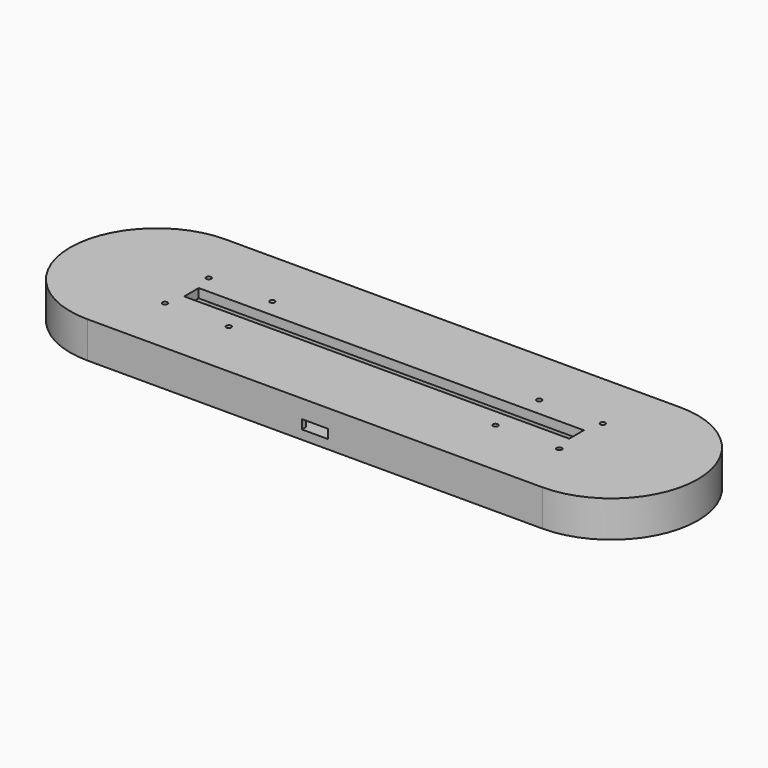
from build123d import *

# Parameters (mm, degrees)
PAD_DEPTH             = 6
POCKET_DEPTH          = 3
SKETCH002_W           = 18.4
SKETCH002_H           = 20.85
POCKET001_DEPTH       = 3
SKETCH003_W           = 8.55
SKETCH003_H           = 1.65
POCKET002_DEPTH       = 3
PAD001_DEPTH          = 3
SKETCH005_W           = 127
SKETCH005_H           = 6
PAD002_DEPTH          = 3
SKETCH006_R           = 0.825
POCKET003_DEPTH       = 442.080062
POLARPATTERN_COUNT    = 2
POLARPATTERN001_COUNT = 2
POLARPATTERN002_COUNT = 2


with BuildPart() as part:
    # Sketch → Pad (new body)
    with BuildSketch(Plane.XY):
        with BuildLine():
            ThreePointArc((-75, 28.5), (-103.5, 0), (-75, -28.5))
            Line((-75, -28.5), (75, -28.5))
            ThreePointArc((75, -28.5), (103.5, 0), (75, 28.5))
            Line((-75, 28.5), (75, 28.5))
        make_face()
    extrude(amount=PAD_DEPTH)

    # Sketch001 (on Face6 of Pad) → Pocket (cut)
    with BuildSketch(Plane.XY.offset(6)):
        with BuildLine():
            ThreePointArc((-62.5, 6), (-68.5, 0), (-62.5, -6))
            Line((-62.5, -6), (62.5, -6))
            ThreePointArc((62.5, -6), (68.5, 0), (62.5, 6))
            Line((-62.5, 6), (62.5, 6))
        make_face()
    extrude(amount=-POCKET_DEPTH, mode=Mode.SUBTRACT)

    # Sketch002 (on Face5 of Pocket) → Pocket001 (cut)
    with BuildSketch(Plane.XY.offset(6)):
        with Locations((0, -16.425)):
            Rectangle(SKETCH002_W, SKETCH002_H)
    extrude(amount=-POCKET001_DEPTH, mode=Mode.SUBTRACT)

    # Sketch003 (on Face5 of Pocket001) → Pocket002 (cut)
    with BuildSketch(Plane.XY.offset(6)):
        with Locations((0, -27.675)):
            Rectangle(SKETCH003_W, SKETCH003_H)
    extrude(amount=-POCKET002_DEPTH, mode=Mode.SUBTRACT)

    # Sketch004 (on Face5 of Pocket002) → Pad001 (join)
    with BuildSketch(Plane.XY.offset(6)):
        with BuildLine():
            ThreePointArc((-75, 28.5), (-103.5, 0), (-75, -28.5))
            Line((-75, -28.5), (75, -28.5))
            ThreePointArc((75, -28.5), (103.5, 0), (75, 28.5))
            Line((-75, 28.5), (75, 28.5))
        make_face()
        with BuildLine():
            ThreePointArc((-62.5, 6), (-68.5, 0), (-62.5, -6))
            Line((-62.5, -6), (62.5, -6))
            ThreePointArc((62.5, -6), (68.5, 0), (62.5, 6))
            Line((-62.5, 6), (62.5, 6))
        make_face(mode=Mode.SUBTRACT)
    extrude(amount=PAD001_DEPTH)

    # Sketch005 (on Face12 of Pad001) → Pad002 (join)
    with BuildSketch(Plane.XY.offset(9)):
        with BuildLine():
            ThreePointArc((-75, 28.5), (-103.5, 0), (-75, -28.5))
            Line((-75, -28.5), (75, -28.5))
            ThreePointArc((75, -28.5), (103.5, 0), (75, 28.5))
            Line((-75, 28.5), (75, 28.5))
        make_face()
        Rectangle(SKETCH005_W, SKETCH005_H, mode=Mode.SUBTRACT)
    extrude(amount=PAD002_DEPTH)

    # Sketch006 (on Face20 of Pad002) → Pocket003 (cut, through all)
    with BuildSketch(Plane.XY.offset(12)):
        with Locations((-65, -9)):
            Circle(SKETCH006_R)
        with Locations((-44, -9)):
            Circle(SKETCH006_R)
    pocket003 = extrude(amount=-POCKET003_DEPTH, mode=Mode.SUBTRACT)

    # PolarPattern: Pocket003 ×2 about axis
    polarpattern_axis = Axis((0, 0, 12), (0, 0, 1))
    for i in range(1, POLARPATTERN_COUNT):
        add(pocket003.rotate(polarpattern_axis, i * 360 / POLARPATTERN_COUNT), mode=Mode.SUBTRACT)

    # PolarPattern001: Pocket003 ×2 about axis
    polarpattern001_axis = Axis((0, 0, 0), (0, 1, 0))
    for i in range(1, POLARPATTERN001_COUNT):
        add(pocket003.rotate(polarpattern001_axis, i * 360 / POLARPATTERN001_COUNT), mode=Mode.SUBTRACT)

    # PolarPattern002: Pocket003 ×2 about axis
    polarpattern002_axis = Axis((0, 0, 0), (-1, 0, 0))
    for i in range(1, POLARPATTERN002_COUNT):
        add(pocket003.rotate(polarpattern002_axis, i * 360 / POLARPATTERN002_COUNT), mode=Mode.SUBTRACT)


solid = part.part
